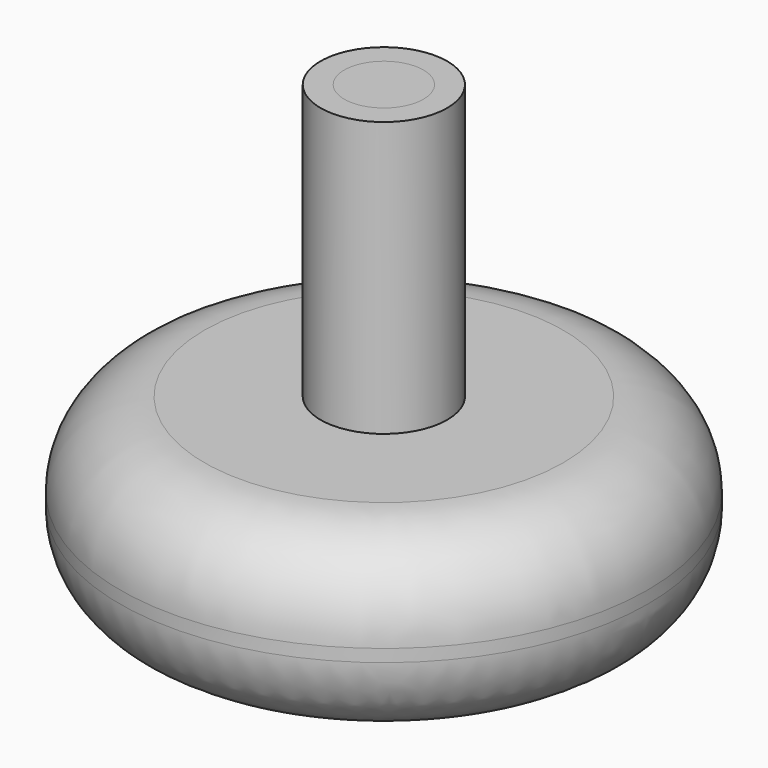
from build123d import *

# Parameters (mm, degrees)
F2_R     = 10.16
F3_R     = 1.5875
F4_DEPTH = 10.16
F5_R     = 4.7625
F6_DEPTH = 9.525


with BuildPart() as f1:
    # F0 (on Front) → F1 (revolve)
    with BuildSketch(Plane.XZ):
        Polygon((0, 58.42), (0, 0), (31.75, 5.08), (31.75, 25.4), (7.62, 25.4), (7.62, 58.42), align=None)
    revolve(axis=Axis((0, 0, 29.21), (0, 0, -1)))

    # F2
    f2_edges = [f1.edges().sort_by_distance(p)[0] for p in [
        (-31.75, 0, 5.08),
        (-31.75, 0, 25.4),
        (31.75, 0, 15.24),
    ]]
    fillet(f2_edges, radius=F2_R)


with BuildPart() as f4:
    # F3 (on Top) → F4 (new body)
    with BuildSketch(Plane.XY):
        Circle(F3_R)
    extrude(amount=F4_DEPTH)


with BuildPart() as f6:
    # F5 (on face) → F6 (new body)
    with BuildSketch(Plane.XY.offset(58.42)):
        Circle(F5_R)
    extrude(amount=-F6_DEPTH)


solid = Compound([f1.part, f4.part, f6.part])
